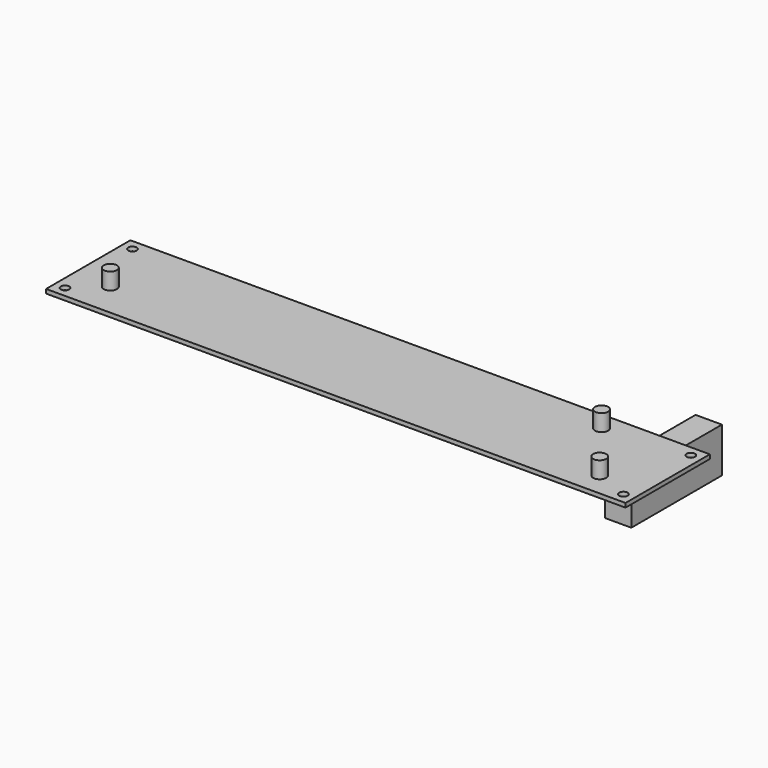
from build123d import *

# Parameters (mm, degrees)
F0_W      = 220
F0_H      = 40
F0_R      = 1.6
F1_DEPTH  = 1.5748
F2_W      = 10
F2_H      = 23
F3_DEPTH  = 17
F3_FACE_W = 10
F3_FACE_H = 17
F4_DEPTH  = 20
F5_R      = 2.5
F6_DEPTH  = 6.35


with BuildPart() as f1:
    # F0 (on Top) → F1 (new body)
    with BuildSketch(Plane.XY):
        Rectangle(F0_W, F0_H)
        with Locations((-106, -16)):
            Circle(F0_R, mode=Mode.SUBTRACT)
        with Locations((106, -16)):
            Circle(F0_R, mode=Mode.SUBTRACT)
        with Locations((-106, 16)):
            Circle(F0_R, mode=Mode.SUBTRACT)
        with Locations((106, 16)):
            Circle(F0_R, mode=Mode.SUBTRACT)
    extrude(amount=F1_DEPTH)

    # F2 (on face) → F3 (join)
    with BuildSketch(Plane(origin=(0, 0, 0), x_dir=(1, 0, 0), z_dir=(0, 0, -1))):
        with Locations((94, -8)):
            Rectangle(F2_W, F2_H)
    extrude(amount=F3_DEPTH)

    # F3_face (on face) → F4 (join)
    with BuildSketch(Plane(origin=(94, 19.5, -8.5), x_dir=(-1, 0, 0), z_dir=(0, 1, 0))):
        Rectangle(F3_FACE_W, F3_FACE_H)
    extrude(amount=F4_DEPTH)

    # F5 (on face) → F6 (join)
    with BuildSketch(Plane.XY.offset(1.5748)):
        with Locations((93, -11)):
            Circle(F5_R)
        with Locations((-96, -7)):
            Circle(F5_R)
        with Locations((74.5, 13)):
            Circle(F5_R)
    extrude(amount=F6_DEPTH)


solid = f1.part
